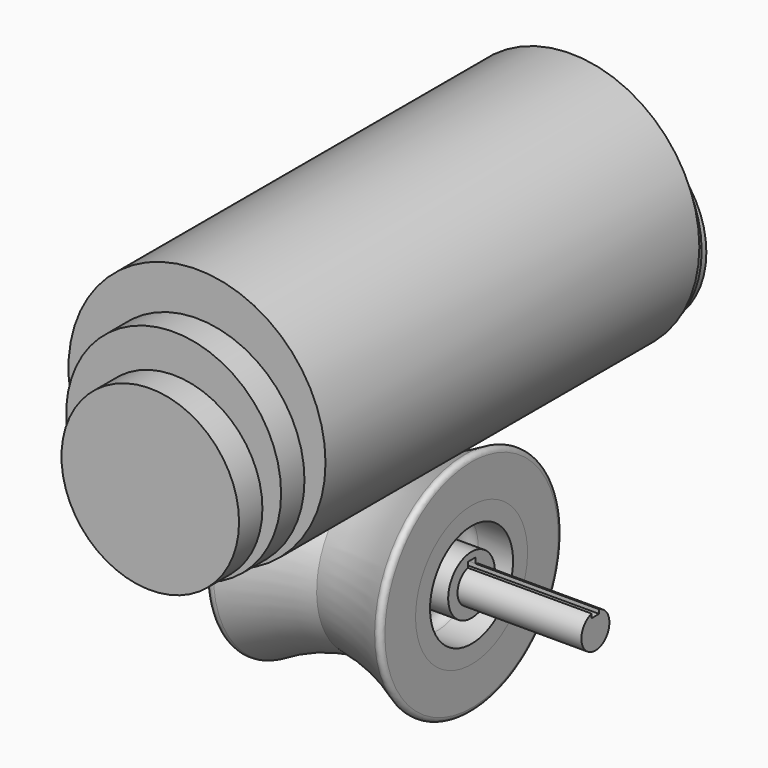
from build123d import *

# Parameters (mm, degrees)
F3_DEPTH  = 181.001
F7_DEPTH  = 128.001
F10_R     = 2
F11_R     = 38
F12_DEPTH = 125
F13_R     = 46
F14_DEPTH = 112.5
F15_R     = 55
F16_DEPTH = 100


with BuildPart() as f1:
    # F0 (on Front) → F1 (revolve)
    with BuildSketch(Plane.XZ):
        Polygon((-90.5, 7.5), (-90.5, 0), (90.5, 0), (90.5, 7.5), (29, 7.5), (29, 7), (28, 7), (28, 7.5), (-47, 7.5), (-47, 7), (-48, 7), (-48, 7.5), align=None)
    revolve(axis=Axis((0, 0, 0), (1, 0, 0)))

    # F2 (on face) → F3 (cut, through all)
    with BuildSketch(Plane(origin=(-90.5, 0, 0), x_dir=(0, -1, 0), z_dir=(-1, 0, 0))):
        with BuildLine():
            ThreePointArc((2, 7.228416), (0, 7.5), (-2, 7.228416))
            Line((-2, 7.228416), (-2, 5.5))
            Line((-2, 5.5), (2, 5.5))
            Line((2, 5.5), (2, 7.228416))
        make_face()
    extrude(amount=-F3_DEPTH, mode=Mode.SUBTRACT)


with BuildPart() as f5:
    # F4 (on Front) → F5 (revolve)
    with BuildSketch(Plane.XZ):
        with BuildLine():
            Line((-37.5, 7.5), (0, 7.5))
            Line((0, 7.5), (37.5, 7.5))
            Line((37.5, 7.5), (37.5, 12.5))
            Line((37.5, 12.5), (22.639541, 12.5))
            ThreePointArc((22.639541, 12.5), (17.783461, 17.35608), (22.639541, 22.212159))
            Line((22.639541, 22.212159), (37.5, 22.212159))
            Line((37.5, 22.212159), (37.5, 30))
            Line((37.5, 30), (0, 30))
            Line((0, 30), (-37.5, 30))
            Line((-37.5, 30), (-37.5, 22.212159))
            Line((-37.5, 22.212159), (-22.639541, 22.212159))
            ThreePointArc((-22.639541, 22.212159), (-17.783461, 17.35608), (-22.639541, 12.5))
            Line((-22.639541, 12.5), (-37.5, 12.5))
            Line((-37.5, 12.5), (-37.5, 7.5))
        make_face()
    revolve(axis=Axis((0, 0, 0), (1, 0, 0)))

    # F6 (on face) → F7 (cut, through all)
    with BuildSketch(Plane(origin=(-37.5, 0, 0), x_dir=(0, -1, 0), z_dir=(-1, 0, 0))):
        with BuildLine():
            Line((2, 9.5), (-2, 9.5))
            Line((-2, 9.5), (-2, 7.228416))
            ThreePointArc((-2, 7.228416), (0, 7.5), (2, 7.228416))
            Line((2, 7.228416), (2, 9.5))
        make_face()
    extrude(amount=-F7_DEPTH, mode=Mode.SUBTRACT)


with BuildPart() as f9:
    # F8 (on Front) → F9 (revolve)
    with BuildSketch(Plane.XZ):
        with BuildLine():
            Line((-37.5, 29.943114), (0, 29.943114))
            Line((0, 29.943114), (37.5, 29.943114))
            Line((37.5, 29.943114), (37.5, 49.943114))
            ThreePointArc((37.5, 49.943114), (19.50689, 40.935903), (0, 36))
            ThreePointArc((0, 36), (-19.50689, 40.935903), (-37.5, 49.943114))
            Line((-37.5, 49.943114), (-37.5, 29.943114))
        make_face()
    revolve(axis=Axis((0, 0, 0), (1, 0, 0)))

    # F10
    f10_edges = [f9.edges().sort_by_distance(p)[0] for p in [
        (-37.5, 0, -49.943114),
        (37.5, 0, -49.943114),
    ]]
    fillet(f10_edges, radius=F10_R)


with BuildPart() as f12:
    # F11 (on Front) → F12 (new body, symmetric)
    with BuildSketch(Plane.XZ):
        with Locations((0, 74.639088)):
            Circle(F11_R)
    extrude(amount=F12_DEPTH, both=True)


with BuildPart() as f14:
    # F13 (on Front) → F14 (new body, symmetric)
    with BuildSketch(Plane.XZ):
        with Locations((0, 82.910913)):
            Circle(F13_R)
    extrude(amount=F14_DEPTH, both=True)


with BuildPart() as f16:
    # F15 (on Front) → F16 (new body, symmetric)
    with BuildSketch(Plane.XZ):
        with Locations((0, 92.363516)):
            Circle(F15_R)
    extrude(amount=F16_DEPTH, both=True)


solid = Compound([f1.part, f5.part, f9.part, f12.part, f14.part, f16.part])
